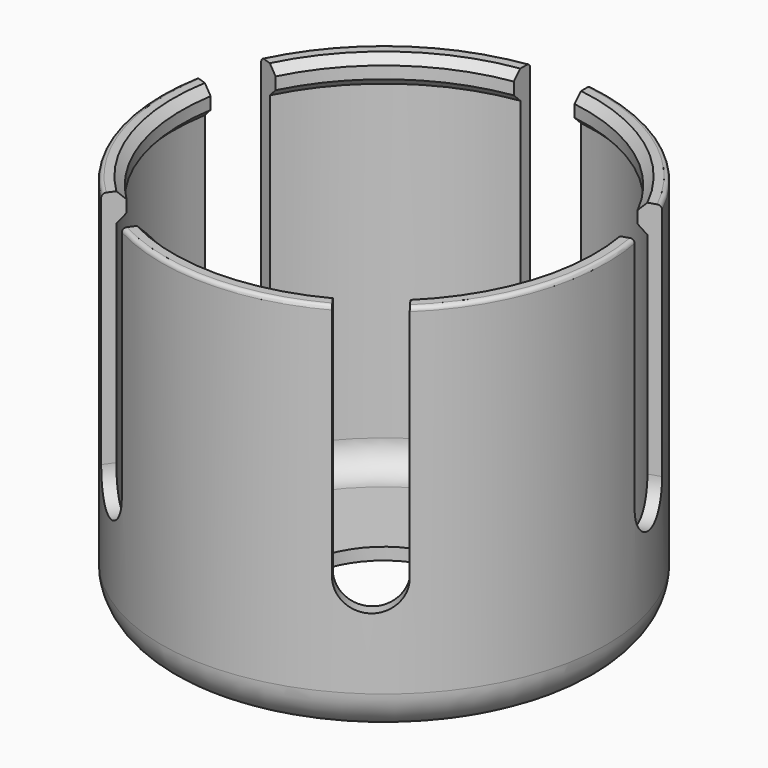
from build123d import *

# Parameters (mm, degrees)
POCKET_DEPTH       = 418.517162
POLARPATTERN_COUNT = 5


with BuildPart() as part:
    # Sketch → Revolution (revolve)
    with BuildSketch(Plane.XZ):
        with BuildLine():
            ThreePointArc((45, 0), (52.071068, 2.928932), (55, 10))
            Line((55, 10), (55, 93))
            ThreePointArc((55, 93), (54.707107, 93.707107), (54, 94))
            Line((54, 94), (52, 94))
            Line((52, 94), (50, 92))
            Line((50, 92), (50, 89))
            Line((50, 89), (52, 87))
            Line((52, 87), (52, 10))
            ThreePointArc((45, 3), (49.949747, 5.050253), (52, 10))
            Line((20, 3), (45, 3))
            Line((20, 0), (20, 3))
            Line((45, 0), (20, 0))
        make_face()
    revolve(axis=Axis((0, 0, 0), (0, 0, 1)))

    # Sketch001 → Pocket (cut, through all)
    with BuildSketch(Plane.XZ):
        with BuildLine():
            ThreePointArc((-7.5, 35), (0, 27.5), (7.5, 35))
            Line((7.5, 35), (7.5, 159.742664))
            ThreePointArc((7.5, 159.742664), (0, 167.242664), (-7.5, 159.742664))
            Line((-7.5, 35), (-7.5, 159.742664))
        make_face()
    pocket = extrude(amount=-POCKET_DEPTH, mode=Mode.SUBTRACT)

    # PolarPattern: Pocket ×5 about axis
    polarpattern_axis = Axis((0, 0, 0), (0, 0, 1))
    for i in range(1, POLARPATTERN_COUNT):
        add(pocket.rotate(polarpattern_axis, i * 360 / POLARPATTERN_COUNT), mode=Mode.SUBTRACT)


solid = part.part
